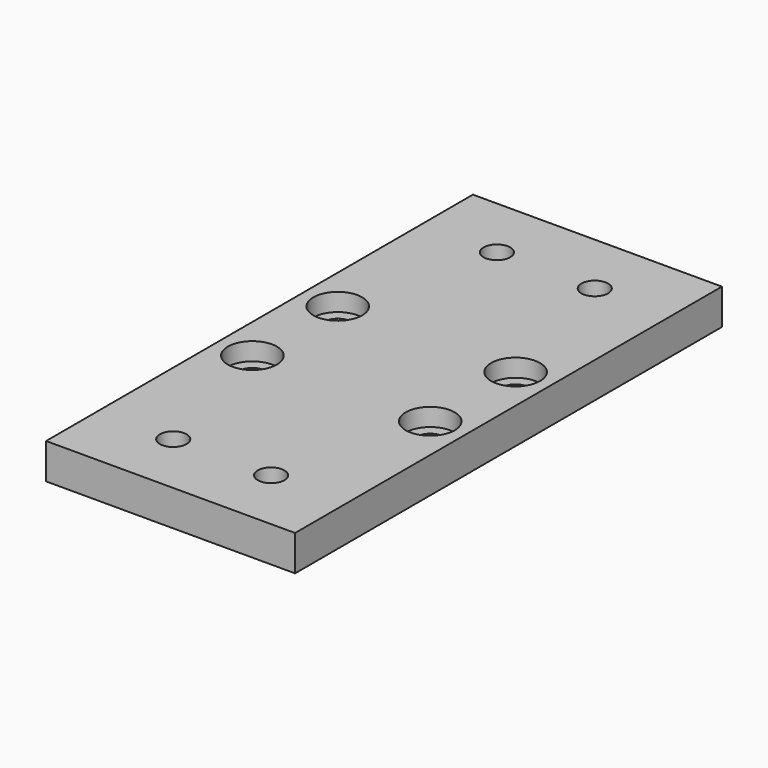
from build123d import *

# Parameters (mm, degrees)
F0_W           = 56
F0_H           = 8
F1_DEPTH       = 120
F3_D           = 6
F5_D           = 6
F5_CBORE_D     = 11
F5_CBORE_DEPTH = 4


with BuildPart() as f1:
    # F0 (on Front) → F1 (new body)
    with BuildSketch(Plane.XZ):
        with Locations((28, 4)):
            Rectangle(F0_W, F0_H)
    extrude(amount=F1_DEPTH)

    # F3 (through all)
    with Locations(Plane.XY.offset(8)):
        with Locations((17, -14.5), (39, -14.5), (17, -105.5), (39, -105.5)):
            Hole(F3_D / 2)

    # F5 (through all)
    with Locations(Plane.XY.offset(8)):
        with Locations((8, -48), (8, -72), (48, -48), (48, -72)):
            CounterBoreHole(F5_D / 2, F5_CBORE_D / 2, F5_CBORE_DEPTH)


solid = f1.part
